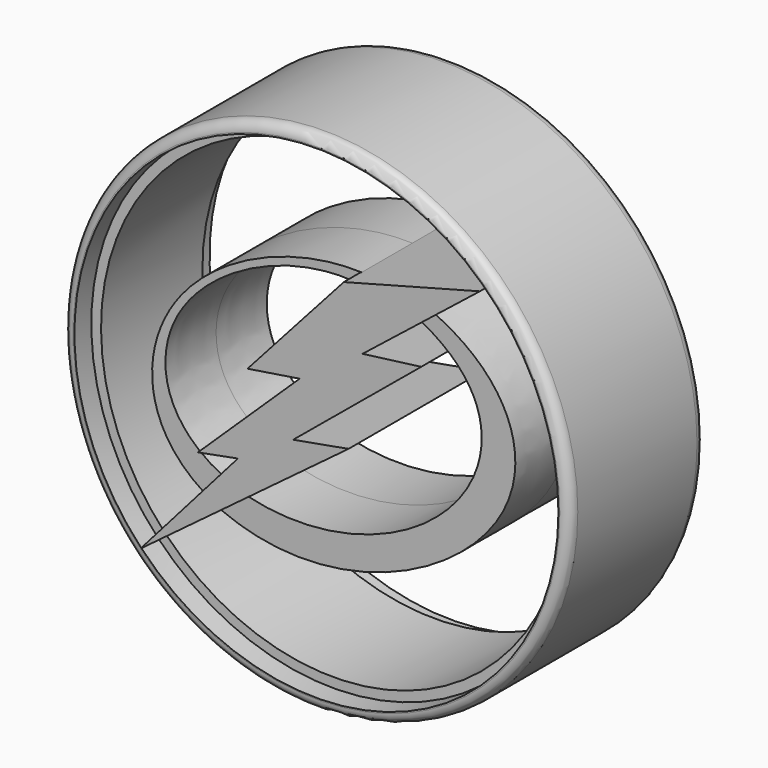
from build123d import *

# Parameters (mm, degrees)
F0_R     = 38.1
F0_R_2   = 36.386913731
F1_DEPTH = 12.7
F2_R     = 1.5
F4_DEPTH = 12.7
F0_R_3   = 34.925
F5_DEPTH = 9.525
F7_DEPTH = 9.525
F9_DEPTH = 9.525


with BuildPart() as f1:
    # F0 (on Front) → F1 (new body, symmetric)
    with BuildSketch(Plane.XZ):
        Circle(F0_R)
        Circle(F0_R_2, mode=Mode.SUBTRACT)
    extrude(amount=F1_DEPTH, both=True)

    # F2
    f2_edges = [f1.edges().sort_by_distance(p)[0] for p in [
        (-38.1, -12.7, 0),
        (-38.1, 12.7, 0),
    ]]
    fillet(f2_edges, radius=F2_R)

    # F3 (on Front) → F4 (join, symmetric)
    with BuildSketch(Plane.XZ):
        Polygon((-11.8081336841, -8.5378140211), (-26.464993082, -25.2349018068), (4.8301340017, -1.8485224727), (-3.5016993061, -3.3492420334), (15.7506130636, 12.5613436103), (6.9332248531, 11.4183481783), (24.5728250593, 25.4238694906), (4.1189347394, 19.9994817376), (-10.358533822, 3.8266193587), (-2.5237547234, 5.047195591), (-17.8205184639, -9.6808085218), align=None)
    extrude(amount=F4_DEPTH, both=True)

    # F0 (on Front) → F5 (join, symmetric)
    with BuildSketch(Plane.XZ):
        Circle(F0_R_2)
        Circle(F0_R_3, mode=Mode.SUBTRACT)
    extrude(amount=F5_DEPTH, both=True)

    # F6 (on Front) → F7 (join, symmetric)
    with BuildSketch(Plane.XZ):
        with BuildLine():
            Line((-19.0900918096, -17.018487677), (-16.3832232356, -13.7969218194))
            add(Edge.make_bspline(
                [(-16.3832232356, -13.7969218194), (-25.3736051563, -9.473731392), (-29.0905786368, 8.1572549104), (-7.3840054694, 19.1332485124), (2.8318234254, 18.4940695763)],
                knots=[0, 0, 0, 0, 0.4527371046, 1, 1, 1, 1], degree=3))
            Line((2.8318234254, 18.4940695763), (4.588526208, 20.0228095055))
            add(Edge.make_bspline(
                [(-19.0900918096, -17.018487677), (-28.620544821, -11.2098539248), (-29.5136057934, 10.2947418894), (-6.1136707664, 20.5405261368), (4.588526208, 20.0228095055)],
                knots=[0, 0, 0, 0, 0.4639479817, 1, 1, 1, 1], degree=3))
        make_face()
    extrude(amount=F7_DEPTH, both=True)

    # F8 (on Front) → F9 (join, symmetric)
    with BuildSketch(Plane.XZ):
        with BuildLine():
            add(Edge.make_bspline(
                [(-13.784956187, -14.9299576879), (-0.5538631669, -18.623918621), (24.9938380842, -8.3206427927), (23.5522668809, 11.1457686871), (13.0951637402, 16.5083874017)],
                knots=[0, 0, 0, 0, 0.5594726936, 1, 1, 1, 1], degree=3))
            Line((-13.784956187, -14.9299576879), (-17.4717549235, -18.0134642869))
            add(Edge.make_bspline(
                [(-17.4717549235, -18.0134642869), (-0.7163750913, -25.6539166477), (35.1580871339, -8.4938520858), (26.0995104909, 13.357847929), (14.8380147293, 18.3182712644)],
                knots=[0, 0, 0, 0, 0.5723759264, 1, 1, 1, 1], degree=3))
            Line((14.8380147293, 18.3182712644), (13.0951637402, 16.5083874017))
        make_face()
    extrude(amount=F9_DEPTH, both=True)


solid = f1.part
